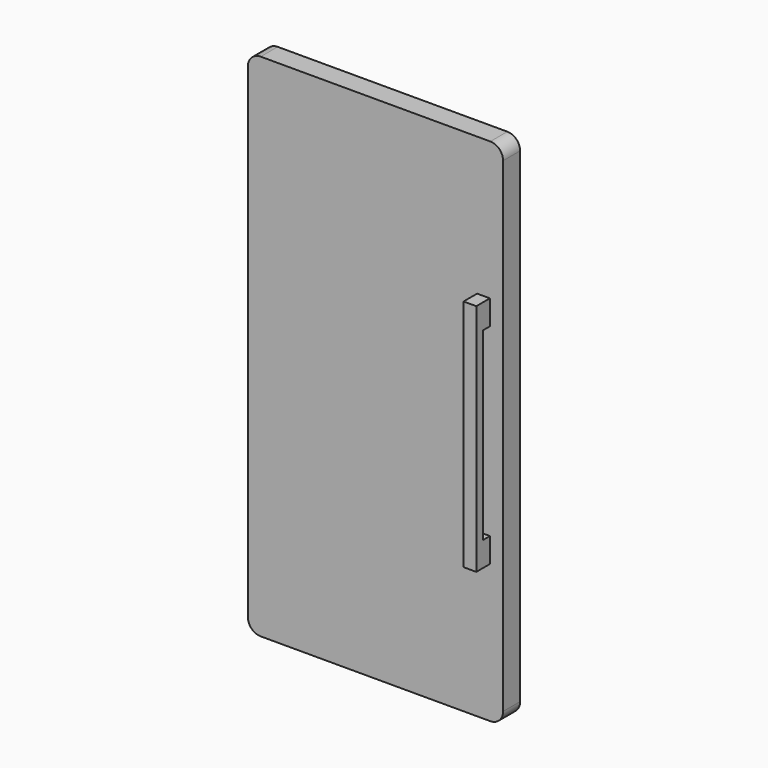
from build123d import *

# Parameters (mm, degrees)
F1_DEPTH = 6.35
F2_W     = 3.81
F2_H     = 69.85
F3_DEPTH = 5.08
F5_DEPTH = 25.4


with BuildPart() as f1:
    # F0 (on Front) → F1 (new body)
    with BuildSketch(Plane.XZ):
        with BuildLine():
            ThreePointArc((38.1, 72.39), (36.984077, 75.084077), (34.29, 76.2))
            Line((34.29, 76.2), (-34.29, 76.2))
            ThreePointArc((-34.29, 76.2), (-36.984077, 75.084077), (-38.1, 72.39))
            Line((-38.1, 72.39), (-38.1, -72.39))
            ThreePointArc((-38.1, -72.39), (-36.984077, -75.084077), (-34.29, -76.2))
            Line((-34.29, -76.2), (34.29, -76.2))
            ThreePointArc((34.29, -76.2), (36.984077, -75.084077), (38.1, -72.39))
            Line((38.1, -72.39), (38.1, 72.39))
        make_face()
    extrude(amount=F1_DEPTH)

    # F2 (on face) → F3 (join)
    with BuildSketch(Plane.XZ.offset(6.35)):
        with Locations((32.262094, 0)):
            Rectangle(F2_W, F2_H)
    extrude(amount=F3_DEPTH)

    # F4 (on face) → F5 (cut)
    with BuildSketch(Plane(origin=(30.357094, 0, 0), x_dir=(0, -1, 0), z_dir=(-1, 0, 0))):
        Polygon((6.35, 27.559), (6.35, 0), (6.35, -27.559), (8.89, -27.559), (8.89, 27.559), align=None)
    extrude(amount=-F5_DEPTH, mode=Mode.SUBTRACT)


solid = f1.part
